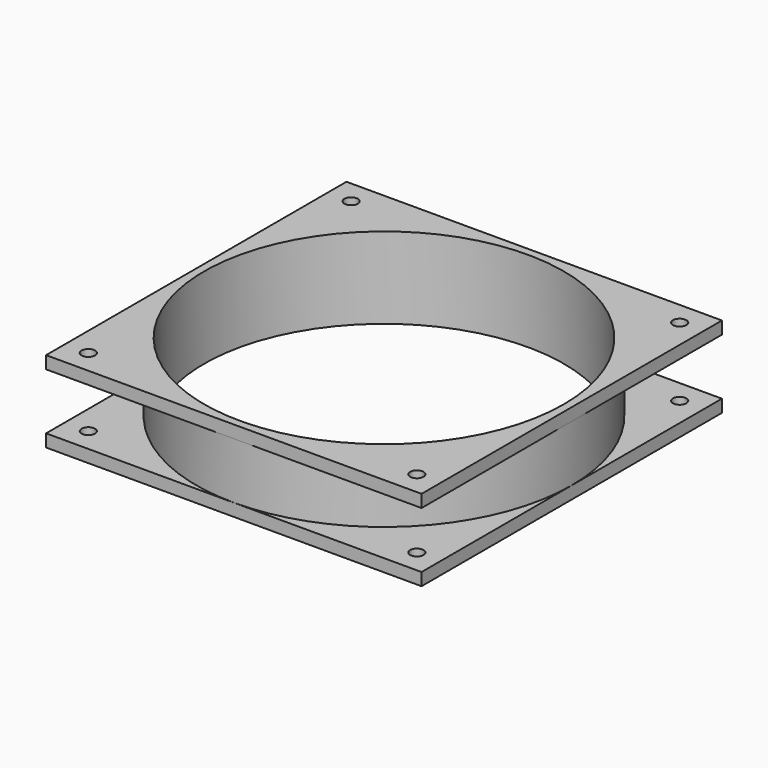
from build123d import *

# Parameters (mm, degrees)
F0_W     = 120
F0_H     = 120
F1_DEPTH = 26
F2_R     = 57.5
F3_DEPTH = 26.001
F6_DEPTH = 18
F7_R     = 2.15
F8_DEPTH = 26.001


with BuildPart() as f1:
    # F0 (on Top) → F1 (new body)
    with BuildSketch(Plane.XY):
        Rectangle(F0_W, F0_H)
    extrude(amount=F1_DEPTH)

    # F2 (on face) → F3 (cut, through all)
    with BuildSketch(Plane.XY.offset(26)):
        Circle(F2_R)
    extrude(amount=-F3_DEPTH, mode=Mode.SUBTRACT)

    # F5 (on offset) → F6 (cut)
    with BuildSketch(Plane.XY.offset(4)):
        with BuildLine():
            ThreePointArc((0, 60), (42.4264068712, 42.4264068712), (60, 0))
            Line((60, 0), (60, 60))
            Line((60, 60), (0, 60))
        make_face()
        with BuildLine():
            Line((60, -60), (60, 0))
            ThreePointArc((60, 0), (42.4264067803, -42.426406962), (-2.57e-07, -60))
            Line((-2.57e-07, -60), (60, -60))
        make_face()
        with BuildLine():
            Line((-60, -60), (-2.57e-07, -60))
            ThreePointArc((-2.57e-07, -60), (-42.4264070618, -42.4264066806), (-60, 2.822e-07))
            Line((-60, 2.822e-07), (-60, -60))
        make_face()
        with BuildLine():
            ThreePointArc((-60, 2.822e-07), (-42.4264067714, 42.426406971), (0, 60))
            Line((0, 60), (-60, 60))
            Line((-60, 60), (-60, 2.822e-07))
        make_face()
    extrude(amount=F6_DEPTH, mode=Mode.SUBTRACT)

    # F7 (on face) → F8 (cut, through all)
    with BuildSketch(Plane.XY.offset(26)):
        with Locations((-52.5, 52.5)):
            Circle(F7_R)
        with Locations((52.5, 52.5)):
            Circle(F7_R)
        with Locations((52.5, -52.5)):
            Circle(F7_R)
        with Locations((-52.5, -52.5)):
            Circle(F7_R)
    extrude(amount=-F8_DEPTH, mode=Mode.SUBTRACT)


solid = f1.part
